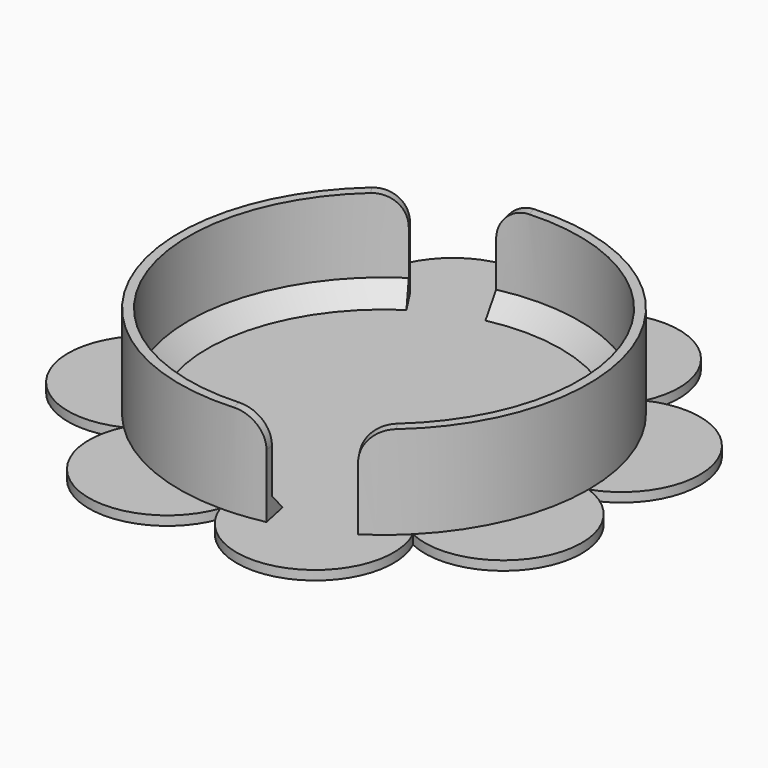
from build123d import *

# Parameters (mm, degrees)
PAD001_DEPTH = 2.5
SKETCH_R     = 55
PAD_DEPTH    = 25
POCKET_DEPTH = 25
FILLET_R     = 8
CHAMFER_SIZE = 5


with BuildPart() as part:
    # Sketch001 → Pad001 (new body)
    with BuildSketch(Plane.XY):
        with BuildLine():
            ThreePointArc((38.890873, 38.890873), (27.935891, 67.443206), (0, 55))
            ThreePointArc((0, 55), (-27.935891, 67.443206), (-38.890873, 38.890873))
            ThreePointArc((-38.890873, 38.890873), (-67.443206, 27.935891), (-55, 0))
            ThreePointArc((-55, 0), (-67.443206, -27.935891), (-38.890873, -38.890873))
            ThreePointArc((-38.890873, -38.890873), (-27.935891, -67.443206), (0, -55))
            ThreePointArc((0, -55), (27.935891, -67.443206), (38.890873, -38.890873))
            ThreePointArc((38.890873, -38.890873), (67.443206, -27.935891), (55, 0))
            ThreePointArc((55, 0), (67.443206, 27.935891), (38.890873, 38.890873))
        make_face()
    extrude(amount=PAD001_DEPTH)

    # Sketch (on Face10 of Pad001) → Pad (join)
    with BuildSketch(Plane.XY.offset(2.5)):
        Circle(SKETCH_R)
    extrude(amount=PAD_DEPTH)

    # Sketch002 (on Face19 of Pad) → Pocket (cut)
    with BuildSketch(Plane.XY.offset(27.5)):
        with BuildLine():
            Line((10.937159, -51.348112), (11.457976, -53.79326))
            ThreePointArc((11.457976, -53.79326), (21.047589, -50.813374), (29.935566, -46.139591))
            Line((28.574859, -44.042337), (29.935566, -46.139591))
            ThreePointArc((28.574859, -44.042337), (48.503675, 20.09088), (-10.937159, 51.348112))
            Line((-11.457976, 53.79326), (-10.937159, 51.348112))
            ThreePointArc((-11.457976, 53.79326), (-21.047589, 50.813374), (-29.935566, 46.139591))
            Line((-29.935566, 46.139591), (-28.574859, 44.042337))
            ThreePointArc((-28.574859, 44.042337), (-48.503675, -20.09088), (10.937159, -51.348112))
        make_face()
    extrude(amount=-POCKET_DEPTH, mode=Mode.SUBTRACT)

    # Fillet
    fillet_edges = [part.edges().sort_by_distance(p)[0] for p in [
        (-29.255213, 45.090964, 27.5),
        (-11.197567, 52.570686, 27.5),
        (11.197567, -52.570686, 27.5),
        (29.255213, -45.090964, 27.5),
    ]]
    fillet(fillet_edges, radius=FILLET_R)

    # Chamfer
    chamfer_edges = [part.edges().sort_by_distance(p)[0] for p in [
        (-48.503675, -20.09088, 2.5),
        (48.503675, 20.09088, 2.5),
    ]]
    chamfer(chamfer_edges, length=CHAMFER_SIZE)


solid = part.part
